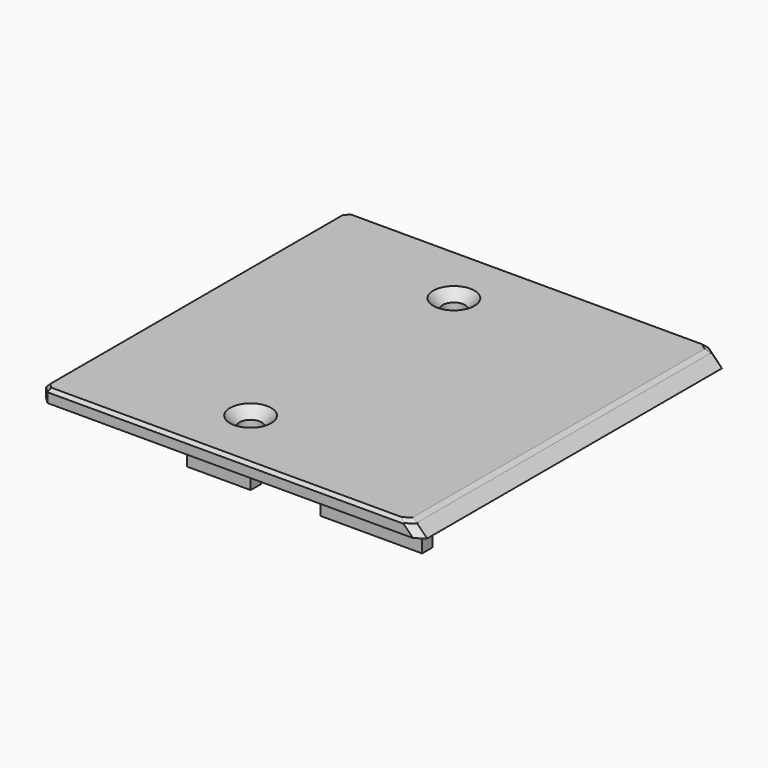
from build123d import *

# Parameters (mm, degrees)
PAD007_DEPTH    = 30
PAD004_DEPTH    = 1.5
PAD006_DEPTH    = 2
SKETCH016_R     = 1.75
POCKET009_DEPTH = 2.5
SKETCH018_W     = 10
SKETCH018_H     = 2
SKETCH018_W_2   = 16
PAD008_DEPTH    = 4
CHAMFER001_SIZE = 1.5
CHAMFER002_SIZE = 1
CHAMFER003_SIZE = 0.5


with BuildPart() as part:
    # Sketch017 → Pad007 (new body, symmetric)
    with BuildSketch(Plane.XZ):
        Polygon((0, 0), (0, 2), (58, 2), (60, 0), align=None)
    extrude(amount=PAD007_DEPTH, both=True)

    # Sketch013 → Pad004 (join)
    with BuildSketch(Plane.XY):
        with BuildLine():
            ThreePointArc((3.75, 27.25), (3.042893, 26.957107), (2.75, 26.25))
            Line((2.75, 21), (2.75, 26.25))
            Line((0, 21), (2.75, 21))
            Line((0, 15), (0, 21))
            Line((2.75, 15), (0, 15))
            Line((2.75, 2), (2.75, 15))
            Line((0, 2), (2.75, 2))
            Line((0, -4), (0, 2))
            Line((2.75, -4), (0, -4))
            Line((2.75, -14), (2.75, -4))
            Line((0, -14), (2.75, -14))
            Line((0, -20), (0, -14))
            Line((2.75, -20), (0, -20))
            Line((2.75, -26.25), (2.75, -20))
            ThreePointArc((2.75, -26.25), (3.042893, -26.957107), (3.75, -27.25))
            Line((55.25, -27.25), (3.75, -27.25))
            ThreePointArc((55.25, -27.25), (55.957107, -26.957107), (56.25, -26.25))
            Line((56.25, 26.25), (56.25, -26.25))
            ThreePointArc((56.25, 26.25), (55.957107, 26.957107), (55.25, 27.25))
            Line((3.75, 27.25), (55.25, 27.25))
        make_face()
    extrude(amount=-PAD004_DEPTH)

    # Sketch015 → Pad006 (join)
    with BuildSketch(Plane.YZ):
        with BuildLine():
            ThreePointArc((-14, -5.354249), (-17, -4), (-20, -5.354249))
            Line((-20, -5.354249), (-20, 0))
            Line((-20, 0), (-14, 0))
            Line((-14, 0), (-14, -5.354249))
        make_face()
        with BuildLine():
            ThreePointArc((2, -5.645898), (-1, -4.5), (-4, -5.645898))
            Line((-4, -5.645898), (-4, 0))
            Line((-4, 0), (2, 0))
            Line((2, 0), (2, -5.645898))
        make_face()
        with BuildLine():
            ThreePointArc((21, -5.645898), (18, -4.5), (15, -5.645898))
            Line((15, -5.645898), (15, 0))
            Line((15, 0), (21, 0))
            Line((21, 0), (21, -5.645898))
        make_face()
    extrude(amount=PAD006_DEPTH)

    # Sketch016 → Pocket009 (cut, symmetric)
    with BuildSketch(Plane.XY):
        with Locations((25, 20)):
            Circle(SKETCH016_R)
        with Locations((25, -20)):
            Circle(SKETCH016_R)
    extrude(amount=POCKET009_DEPTH, both=True, mode=Mode.SUBTRACT)

    # Sketch018 → Pad008 (join)
    with BuildSketch(Plane.XY.offset(-5)):
        with Locations((24, -24)):
            Rectangle(SKETCH018_W, SKETCH018_H)
        with Locations((48, -24)):
            Rectangle(SKETCH018_W_2, SKETCH018_H)
    extrude(amount=PAD008_DEPTH)

    # Chamfer001
    chamfer001_edges = [part.edges().sort_by_distance(p)[0] for p in [
        (23.25, 20, 2),
        (23.25, -20, 2),
    ]]
    chamfer(chamfer001_edges, length=CHAMFER001_SIZE)

    # Chamfer002
    chamfer002_edges = [part.edges().sort_by_distance(p)[0] for p in [
        (59, -30, 1),
        (0, -30, 1),
        (0, 30, 1),
        (59, 30, 1),
    ]]
    chamfer(chamfer002_edges, length=CHAMFER002_SIZE)

    # Chamfer003
    chamfer003_edges = [part.edges().sort_by_distance(p)[0] for p in [
        (28.792893, 30, 2),
        (0.5, 29.5, 2),
        (0, 0, 2),
        (0.5, -29.5, 2),
        (28.792893, -30, 2),
        (57.292893, -29.5, 2),
        (58, 0, 2),
        (57.292893, 29.5, 2),
    ]]
    chamfer(chamfer003_edges, length=CHAMFER003_SIZE)


solid = part.part
